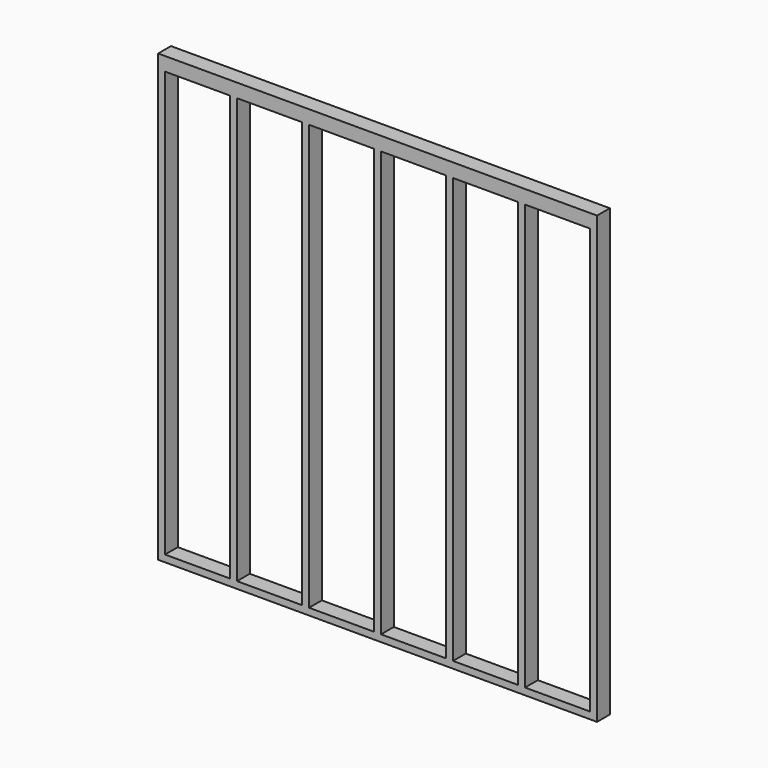
from build123d import *

# Parameters (mm, degrees)
F0_W     = 2438.4
F0_H     = 2438.4
F0_H_2   = 38.1
F0_W_2   = 38.1
F0_H_3   = 2362.2
F1_DEPTH = 88.9


with BuildPart() as f1:
    # F0 (on Front) → F1 (new body)
    with BuildSketch(Plane.XZ):
        with Locations((31.3295868914, -474.5334469899)):
            Rectangle(F0_W, F0_H)
        Polygon((-1149.7704131086, -1655.6334469899), (-1149.7704131086, 706.5665530101), (-787.8204131086, 706.5665530101), (-749.7204131086, 706.5665530101), (-387.7704131086, 706.5665530101), (-349.6704131086, 706.5665530101), (12.2795868914, 706.5665530101), (50.3795868914, 706.5665530101), (412.3295868914, 706.5665530101), (450.4295868914, 706.5665530101), (812.3795868914, 706.5665530101), (850.4795868914, 706.5665530101), (1164.1096339266, 706.5665530101), (1212.4295868914, 706.5665530101), (1212.4295868914, -1655.6334469899), (850.4795868914, -1655.6334469899), (812.3795868914, -1655.6334469899), (450.4295868914, -1655.6334469899), (412.3295868914, -1655.6334469899), (50.3795868914, -1655.6334469899), (12.2795868914, -1655.6334469899), (-349.6704131086, -1655.6334469899), (-387.7704131086, -1655.6334469899), (-749.7204131086, -1655.6334469899), (-787.8204131086, -1655.6334469899), align=None, mode=Mode.SUBTRACT)
        with Locations((31.3295868914, 763.7165530101)):
            Rectangle(F0_W, F0_H_2)
        with Locations((-768.7704131086, -474.5334469899)):
            Rectangle(F0_W_2, F0_H_3)
        with Locations((-368.7204131086, -474.5334469899)):
            Rectangle(F0_W_2, F0_H_3)
        with Locations((31.3295868914, -474.5334469899)):
            Rectangle(F0_W_2, F0_H_3)
        with Locations((431.3795868914, -474.5334469899)):
            Rectangle(F0_W_2, F0_H_3)
        with Locations((831.4295868914, -474.5334469899)):
            Rectangle(F0_W_2, F0_H_3)
    extrude(amount=F1_DEPTH)


solid = f1.part
